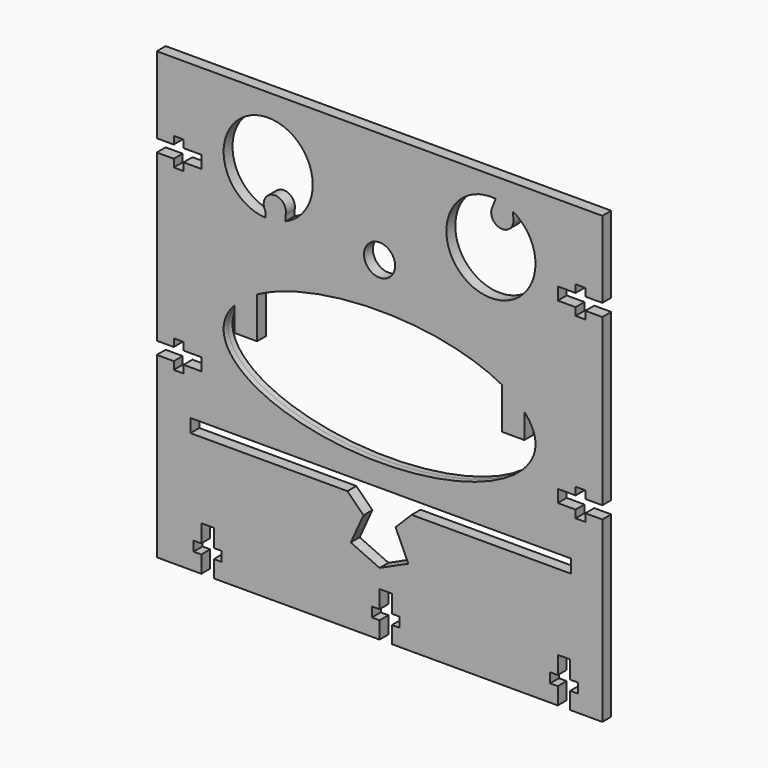
from build123d import *

# Parameters (mm, degrees)
F0_R     = 4.426475661
F1_DEPTH = 1.5875
F3_DEPTH = 3.1760001


with BuildPart() as f1:
    # F0 (on Front) → F1 (new body, symmetric)
    with BuildSketch(Plane.XZ):
        Polygon((54.356, -63.5), (63.5, -63.5), (63.5, -12.7), (58.658125, -12.7), (58.658125, -14.89075), (55.88, -14.89075), (55.88, -12.7), (50.8, -12.7), (50.8, -9.144), (55.88, -9.144), (55.88, -6.95325), (58.658125, -6.95325), (58.658125, -9.144), (63.5, -9.144), (63.5, 38.1), (58.658125, 38.1), (58.658125, 35.90925), (55.88, 35.90925), (55.88, 38.1), (50.8, 38.1), (50.8, 41.656), (55.88, 41.656), (55.88, 43.84675), (58.658125, 43.84675), (58.658125, 41.656), (63.5, 41.656), (63.5, 63.5), (-63.5, 63.5), (-63.5, 41.656), (-58.658125, 41.656), (-58.658125, 43.84675), (-55.88, 43.84675), (-55.88, 41.656), (-50.8, 41.656), (-50.8, 38.1), (-55.88, 38.1), (-55.88, 35.90925), (-58.658125, 35.90925), (-58.658125, 38.1), (-63.5, 38.1), (-63.5, -9.144), (-58.658125, -9.144), (-58.658125, -6.95325), (-55.88, -6.95325), (-55.88, -9.144), (-50.8, -9.144), (-50.8, -12.7), (-55.88, -12.7), (-55.88, -14.89075), (-58.658125, -14.89075), (-58.658125, -12.7), (-63.5, -12.7), (-63.5, -63.5), (-50.8, -63.5), (-50.8, -58.658125), (-52.99075, -58.658125), (-52.99075, -55.88), (-50.8, -55.88), (-50.8, -50.8), (-47.244, -50.8), (-47.244, -55.88), (-45.05325, -55.88), (-45.05325, -58.658125), (-47.244, -58.658125), (-47.244, -63.5), (0, -63.5), (0, -58.658125), (-2.19075, -58.658125), (-2.19075, -55.88), (0, -55.88), (0, -50.8), (3.556, -50.8), (3.556, -55.88), (5.74675, -55.88), (5.74675, -58.658125), (3.556, -58.658125), (3.556, -63.5), (50.8, -63.5), (50.8, -58.658125), (48.60925, -58.658125), (48.60925, -55.88), (50.8, -55.88), (50.8, -50.8), (54.356, -50.8), (54.356, -55.88), (56.54675, -55.88), (56.54675, -58.658125), (54.356, -58.658125), align=None)
        with BuildLine():
            ThreePointArc((-32.5203218701, 31.7733835659), (-40.4536461397, 53.6985968598), (-19.05, 44.45))
            ThreePointArc((-19.05, 44.45), (-21.1583387907, 37.4423818007), (-26.7833406026, 32.7614460077))
            ThreePointArc((-26.7833406026, 32.7614460077), (-29.5944538957, 31.9342650638), (-32.5203218701, 31.7733835659))
        make_face(mode=Mode.SUBTRACT)
        with BuildLine():
            add(Edge.make_bspline(
                [(44.45, 0), (44.45, 3.6661742094), (41.275, 7.0704788323)],
                knots=[0, 0, 0, 0.3802512067, 0.3802512067, 0.3802512067], degree=2, weights=[1, 0.9819805061, 1]))
            add(Edge.make_bspline(
                [(-41.275, 7.0704788323), (-61.2505208253, -14.3477126296), (-8.4002604126, -18.7067286405), (44.45, -23.0657446513), (44.45, 0)],
                knots=[2.7613414469, 2.7613414469, 2.7613414469, 4.522263377, 4.522263377, 6.2831853072, 6.2831853072, 6.2831853072], degree=2, weights=[1, 0.6367957928, 1, 0.6367957928, 1]))
            add(Edge.make_bspline(
                [(-34.925, 11.7841313872), (-38.89375, 9.6237072996), (-41.275, 7.0704788323)],
                knots=[2.4746463091, 2.4746463091, 2.4746463091, 2.7613414469, 2.7613414469, 2.7613414469], degree=2, weights=[1, 0.9897433186, 1]))
            add(Edge.make_bspline(
                [(34.925, 11.7841313872), (0, 30.7958633586), (-34.925, 11.7841313872)],
                knots=[0.6669463445, 0.6669463445, 0.6669463445, 2.4746463091, 2.4746463091, 2.4746463091], degree=2, weights=[1, 0.6185895741, 1]))
            add(Edge.make_bspline(
                [(41.275, 7.0704788323), (38.89375, 9.6237072996), (34.925, 11.7841313872)],
                knots=[0.3802512067, 0.3802512067, 0.3802512067, 0.6669463445, 0.6669463445, 0.6669463445], degree=2, weights=[1, 0.9897433186, 1]))
        make_face(mode=Mode.SUBTRACT)
        with Locations((0, 31.75)):
            Circle(F0_R, mode=Mode.SUBTRACT)
        with BuildLine():
            ThreePointArc((38.02746706, 56.2953220395), (42.727564203, 51.6414036807), (44.45, 45.2552401869))
            ThreePointArc((44.45, 45.2552401869), (22.3090487849, 36.7606277676), (33.0864661175, 57.8847238785))
            ThreePointArc((33.0864661175, 57.8847238785), (35.639028691, 57.3451308333), (38.02746706, 56.2953220395))
        make_face(mode=Mode.SUBTRACT)
        with BuildLine():
            Line((38.1654474814, 54.2776674622), (38.02746706, 56.2953220395))
            ThreePointArc((38.02746706, 56.2953220395), (35.639028691, 57.3451308333), (33.0864661175, 57.8847238785))
            Line((33.0864661175, 57.8847238785), (32.0418357229, 55.2197649229))
            ThreePointArc((32.0418357229, 55.2197649229), (34.5150625993, 50.9229662535), (38.1654474814, 54.2776674622))
        make_face()
        with BuildLine():
            Line((-32.5203218701, 33.4118034209), (-32.5203218701, 31.7733835659))
            ThreePointArc((-32.5203218701, 31.7733835659), (-29.5944538957, 31.9342650638), (-26.7833406026, 32.7614460077))
            Line((-26.7833406026, 32.7614460077), (-26.7833406026, 34.2687429437))
            ThreePointArc((-26.7833406026, 34.2687429437), (-30.3117243032, 38.2580810463), (-32.5203218701, 33.4118034209))
        make_face()
        with BuildLine():
            add(Edge.make_bspline(
                [(-34.925, 11.7841313872), (-38.89375, 9.6237072996), (-41.275, 7.0704788323)],
                knots=[2.4746463091, 2.4746463091, 2.4746463091, 2.7613414469, 2.7613414469, 2.7613414469], degree=2, weights=[1, 0.9897433186, 1]))
            Line((-41.275, 7.0704788323), (-41.275, 0))
            Line((-41.275, 0), (-34.925, 0))
            Line((-34.925, 0), (-34.925, 11.7841313872))
        make_face()
        with BuildLine():
            Line((41.275, 0), (41.275, 7.0704788323))
            add(Edge.make_bspline(
                [(41.275, 7.0704788323), (38.89375, 9.6237072996), (34.925, 11.7841313872)],
                knots=[0.3802512067, 0.3802512067, 0.3802512067, 0.6669463445, 0.6669463445, 0.6669463445], degree=2, weights=[1, 0.9897433186, 1]))
            Line((34.925, 11.7841313872), (34.925, 0))
            Line((34.925, 0), (41.275, 0))
        make_face()
    extrude(amount=F1_DEPTH, both=True)

    # F2 (on face) → F3 (cut, through all)
    with BuildSketch(Plane.XZ.offset(1.5875)):
        Polygon((-53.9152510464, -25.4), (-53.9152510464, -29.21), (-9.1524110914, -29.21), (9.1524110914, -29.21), (54.6370558441, -29.21), (54.6370558441, -25.4), align=None)
        Polygon((9.1524110914, -29.21), (-9.1524110914, -29.21), (-4.5762055457, -33.7862055457), (0, -38.3624110914), (4.5762055457, -33.7862055457), align=None)
        Polygon((0, -38.3624110914), (-4.5762055457, -33.7862055457), (-8.2022583859, -41.7798972868), (0, -45.5005589385), (8.2022583859, -41.7798972868), (4.5762055457, -33.7862055457), align=None)
    extrude(amount=-F3_DEPTH, mode=Mode.SUBTRACT)


solid = f1.part
